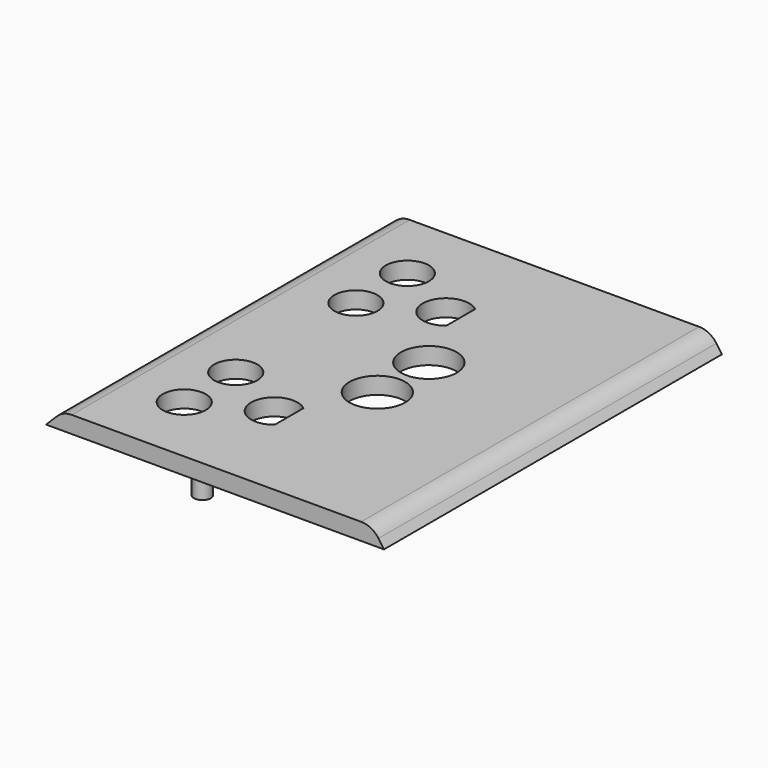
from build123d import *

# Parameters (mm, degrees)
PAD_DEPTH     = 25
SKETCH001_R   = 1
PAD001_DEPTH  = 3
SKETCH002_R   = 2.55
SKETCH002_R_2 = 3.3
POCKET_DEPTH  = 2.001
FILLET_R      = 2.5


with BuildPart() as part:
    # Sketch → Pad (new body, symmetric)
    with BuildSketch(Plane.XZ):
        Polygon((0, 0), (2, 2), (38.599585, 2), (40, 0), align=None)
    extrude(amount=PAD_DEPTH, both=True)

    # Sketch001 (on Face4 of Pad) → Pad001 (join)
    with BuildSketch(Plane(origin=(0, 0, 0), x_dir=(1, 0, 0), z_dir=(0, 0, -1))):
        with Locations((16.5, 22.5)):
            Circle(SKETCH001_R)
        with Locations((16.5, -22.5)):
            Circle(SKETCH001_R)
    extrude(amount=PAD001_DEPTH)

    # Sketch002 (on Face2 of Pad001) → Pocket (cut, through all)
    with BuildSketch(Plane(origin=(0, 0, 0), x_dir=(1, 0, 0), z_dir=(0, 0, -1))):
        with Locations((9.56, 16.51)):
            Circle(SKETCH002_R)
        with Locations((9.56, 8.89)):
            Circle(SKETCH002_R)
        with Locations((9.56, -8.89)):
            Circle(SKETCH002_R)
        with Locations((9.56, -16.51)):
            Circle(SKETCH002_R)
        with Locations((22.26, 3.81)):
            Circle(SKETCH002_R_2)
        with Locations((22.26, -3.81)):
            Circle(SKETCH002_R_2)
        with BuildLine():
            Line((18.92553, 14.825), (18.92553, 10.575))
            ThreePointArc((18.92553, 14.825), (14.43, 12.7), (18.92553, 10.575))
        make_face()
        with BuildLine():
            Line((18.92553, -10.575), (18.92553, -14.825))
            ThreePointArc((18.92553, -10.575), (14.43, -12.7), (18.92553, -14.825))
        make_face()
    extrude(amount=-POCKET_DEPTH, mode=Mode.SUBTRACT)

    # Fillet
    fillet_edges = [part.edges().sort_by_distance(p)[0] for p in [
        (38.599585, 0, 2),
        (2, 0, 2),
    ]]
    fillet(fillet_edges, radius=FILLET_R)


solid = part.part
